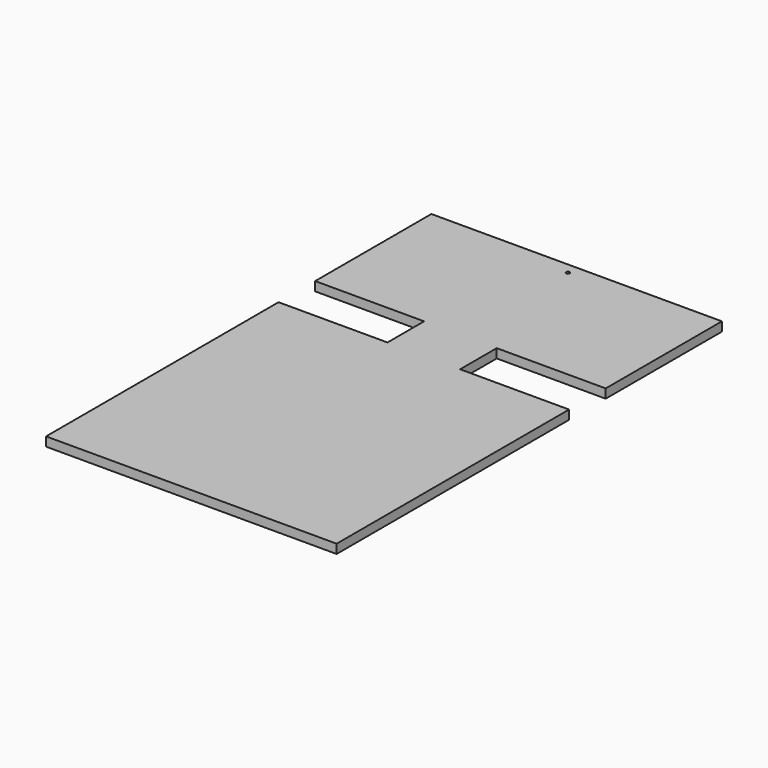
from build123d import *

# Parameters (mm, degrees)
F1_DEPTH = 3.175
F2_R     = 0.635
F3_DEPTH = 3.176


with BuildPart() as f1:
    # F0 (on Top) → F1 (new body)
    with BuildSketch(Plane.XY):
        Polygon((-50.8, 0), (0, 0), (0, 168.402), (-50.8, 168.402), (-50.8, 117.602), (-12.7, 117.602), (-12.7, 101.6), (-50.8, 101.6), align=None)
        Polygon((0, 168.402), (0, 0), (50.8, 0), (50.8, 101.6), (12.7, 101.6), (12.7, 117.602), (50.8, 117.602), (50.8, 168.402), align=None)
    extrude(amount=F1_DEPTH)

    # F2 (on face) → F3 (cut, through all)
    with BuildSketch(Plane.XY.offset(3.175)):
        with Locations((0, 164.592)):
            Circle(F2_R)
    extrude(amount=-F3_DEPTH, mode=Mode.SUBTRACT)


solid = f1.part
